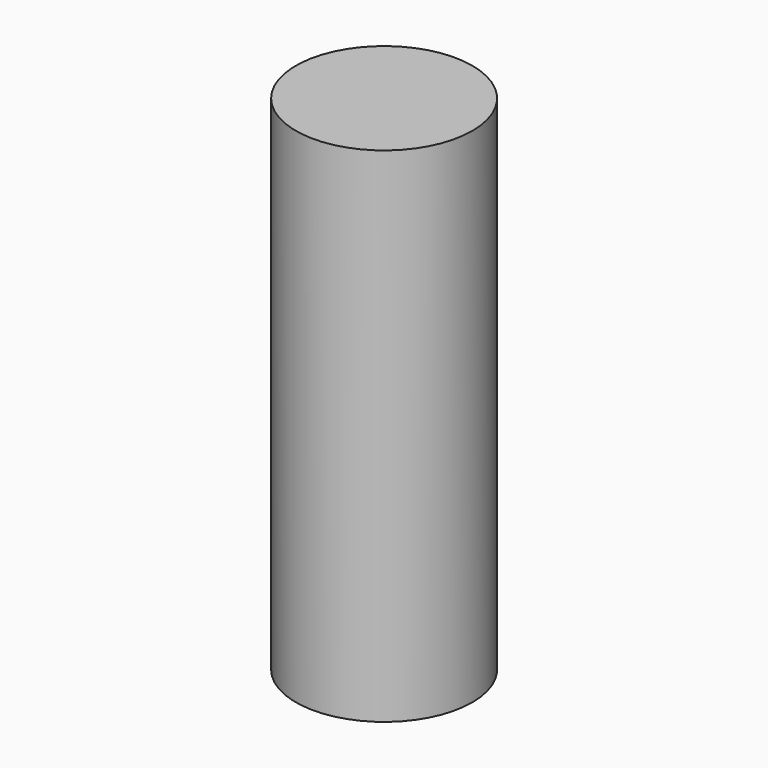
from build123d import *

# Parameters (mm, degrees)
F0_R     = 2.5
F1_DEPTH = 14.25
F3_D     = 4
F3_DEPTH = 2
F3_TIP   = 1.2017212381
F4_R     = 2.1505871319
F5_DEPTH = 4.5


with BuildPart() as f1:
    # F0 (on Top) → F1 (new body)
    with BuildSketch(Plane.XY):
        Circle(F0_R)
        with BuildLine():
            ThreePointArc((-1.5, 1.3228756555), (2, 0), (-1.5, -1.3228756555))
            Line((-1.5, -1.3228756555), (-1.5, 1.3228756555))
        make_face(mode=Mode.SUBTRACT)
    extrude(amount=F1_DEPTH)

    # F3
    with Locations(Plane(origin=(0, 0, 0), x_dir=(1, 0, 0), z_dir=(0, 0, -1))):
        with Locations((0, 0)):
            Hole(F3_D / 2, depth=F3_DEPTH)
            with Locations((0, 0, -(F3_DEPTH + F3_TIP / 2))):  # 118° drill point
                Cone(0, F3_D / 2, F3_TIP, mode=Mode.SUBTRACT)

    # F4 (on face) → F5 (join)
    with BuildSketch(Plane.XY.offset(14.25)):
        Circle(F4_R)
        with BuildLine():
            Line((-1.5, -1.3228756555), (-1.5, 1.3228756555))
            ThreePointArc((-1.5, 1.3228756555), (2, 0), (-1.5, -1.3228756555))
        make_face(mode=Mode.SUBTRACT)
        with BuildLine():
            ThreePointArc((-1.5, -1.3228756555), (2, 0), (-1.5, 1.3228756555))
            Line((-1.5, 1.3228756555), (-1.5, -1.3228756555))
        make_face()
    extrude(amount=-F5_DEPTH)


solid = f1.part
